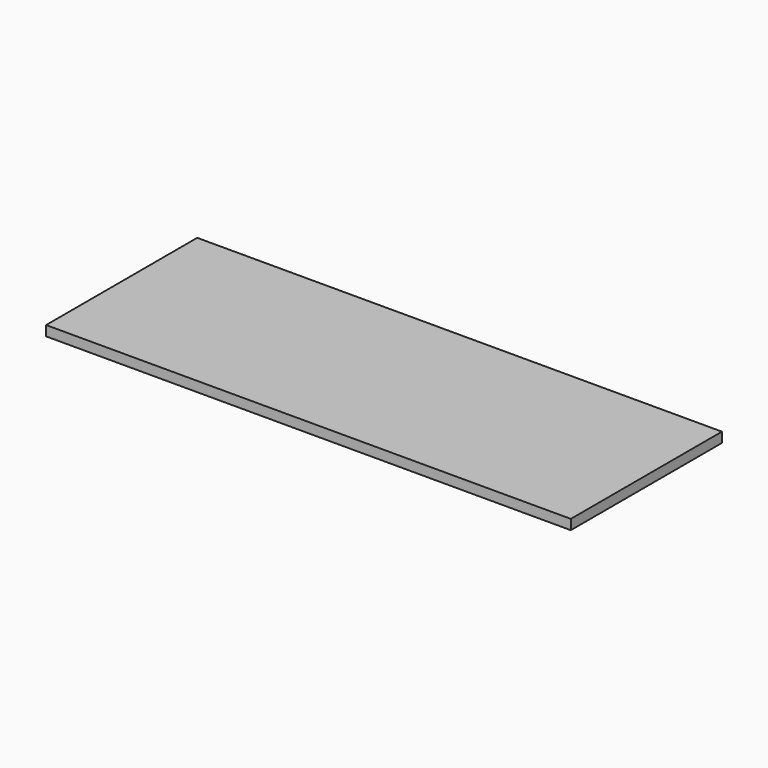
from build123d import *

# Parameters (mm, degrees)
F0_W     = 500
F0_H     = 30.5
F0_H_2   = 30
F1_DEPTH = 9.5


with BuildPart() as f1:
    # F0 (on Top) → F1 (new body)
    with BuildSketch(Plane.XY):
        Polygon((-32.608893, 97.689439), (-32.608893, 48.189439), (467.391107, 48.189439), (467.391107, 167.689439), (-32.608893, 167.689439), align=None)
        with Locations((217.391107, 32.939439)):
            Rectangle(F0_W, F0_H)
        with Locations((217.391107, 2.689439)):
            Rectangle(F0_W, F0_H_2)
    extrude(amount=F1_DEPTH)


solid = f1.part
